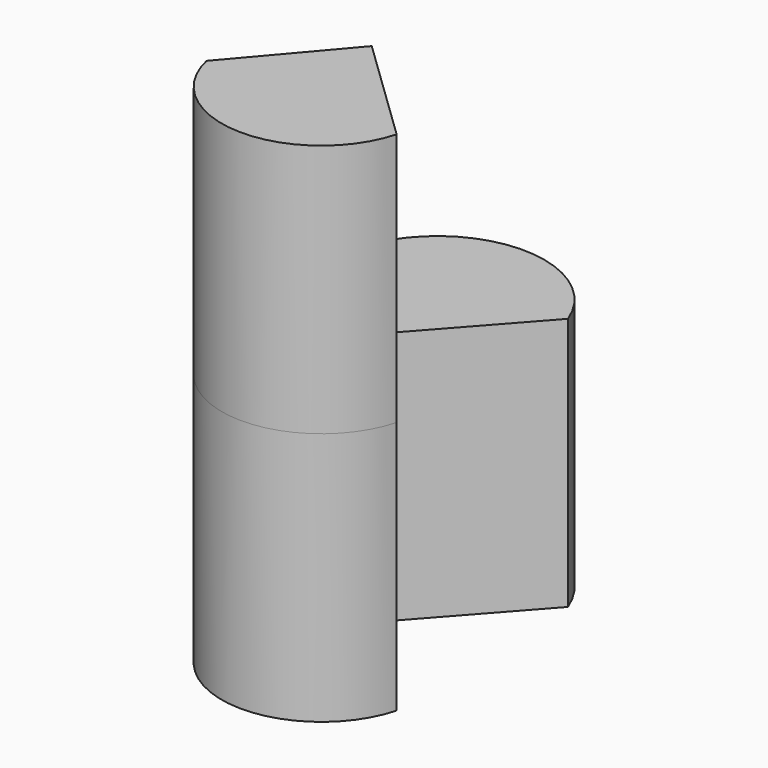
from build123d import *

# Parameters (mm, degrees)
F1_DEPTH = 100
F2_DEPTH = 100


with BuildPart() as f1:
    # F0 (on Top) → F1 (new body)
    with BuildSketch(Plane.XY):
        with BuildLine():
            Line((-39.016396, 43.463115), (0, 0))
            Line((0, 0), (40.737707, 45.758199))
            ThreePointArc((40.737707, 45.758199), (0.044773, 72.96254), (-39.016396, 43.463115))
        make_face()
        with BuildLine():
            Line((42.745903, -41.168034), (0, 0))
            Line((0, 0), (-33.565573, -39.446723))
            ThreePointArc((-33.565573, -39.446723), (3.917462, -70.130523), (42.745903, -41.168034))
        make_face()
    extrude(amount=F1_DEPTH)

    # F1_face (on face) → F2 (join)
    with BuildSketch(Plane(origin=(3.715177, -40.429225, 100), x_dir=(1, 0, 0), z_dir=(0, 0, 1))):
        with BuildLine():
            Line((39.030726, -0.738809), (-3.715177, 40.429225))
            Line((-3.715177, 40.429225), (-37.28075, 0.982502))
            ThreePointArc((-37.28075, 0.982502), (0.202286, -29.701297), (39.030726, -0.738809))
        make_face()
        with BuildLine():
            Line((-3.715177, 40.429225), (39.030726, -0.738809))
            ThreePointArc((39.030726, -0.738809), (0.202286, -29.701297), (-37.28075, 0.982502))
            Line((-37.28075, 0.982502), (-3.715177, 40.429225))
        make_face()
    extrude(amount=F2_DEPTH)


solid = f1.part
